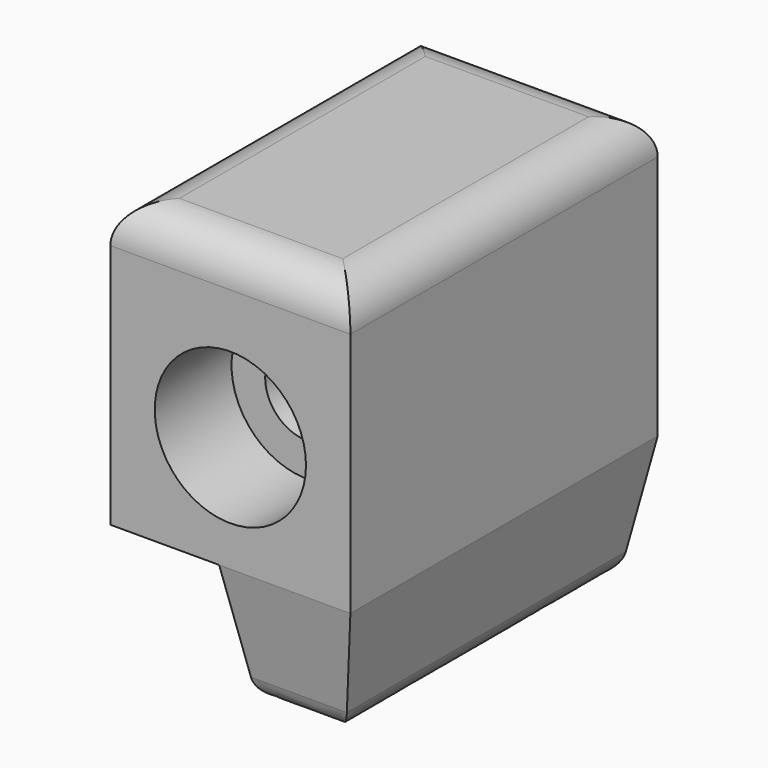
from build123d import *

# Parameters (mm, degrees)
F0_W           = 50
F0_H           = 80
F1_DEPTH       = 59.182
F2_R           = 8
F4_D           = 17.5
F4_CBORE_D     = 31.5
F4_CBORE_DEPTH = 20
F5_W           = 27.3326538503
F5_H           = 80
F6_DEPTH       = 25
F6_TAPER       = 10
F7_R           = 5


with BuildPart() as f1:
    # F0 (on Top) → F1 (new body)
    with BuildSketch(Plane.XY):
        with Locations((2.3326538503, 22.9340901269)):
            Rectangle(F0_W, F0_H)
    extrude(amount=F1_DEPTH)

    # F2
    f2_edges = [f1.edges().sort_by_distance(p)[0] for p in [
        (-22.667346, 22.93409, 59.182),
        (2.332654, -17.06591, 59.182),
        (27.332654, 22.93409, 59.182),
        (2.332654, 62.93409, 59.182),
    ]]
    fillet(f2_edges, radius=F2_R)

    # F4 (through all)
    with Locations(Plane.XZ.offset(17.0659098731)):
        with Locations((2.3326538503, 24.1386201233)):
            CounterBoreHole(F4_D / 2, F4_CBORE_D / 2, F4_CBORE_DEPTH)

    # F5 (on face) → F6 (join)
    with BuildSketch(Plane(origin=(0, 0, 0), x_dir=(1, 0, 0), z_dir=(0, 0, -1))):
        with Locations((13.6663269252, -22.9340901269)):
            Rectangle(F5_W, F5_H)
    extrude(amount=F6_DEPTH, taper=F6_TAPER)

    # F7
    f7_edges = [f1.edges().sort_by_distance(p)[0] for p in [
        (22.924479, 22.93409, -25),
        (13.666327, -12.657735, -25),
        (4.408175, 22.93409, -25),
        (13.666327, 58.525916, -25),
    ]]
    fillet(f7_edges, radius=F7_R)


solid = f1.part
